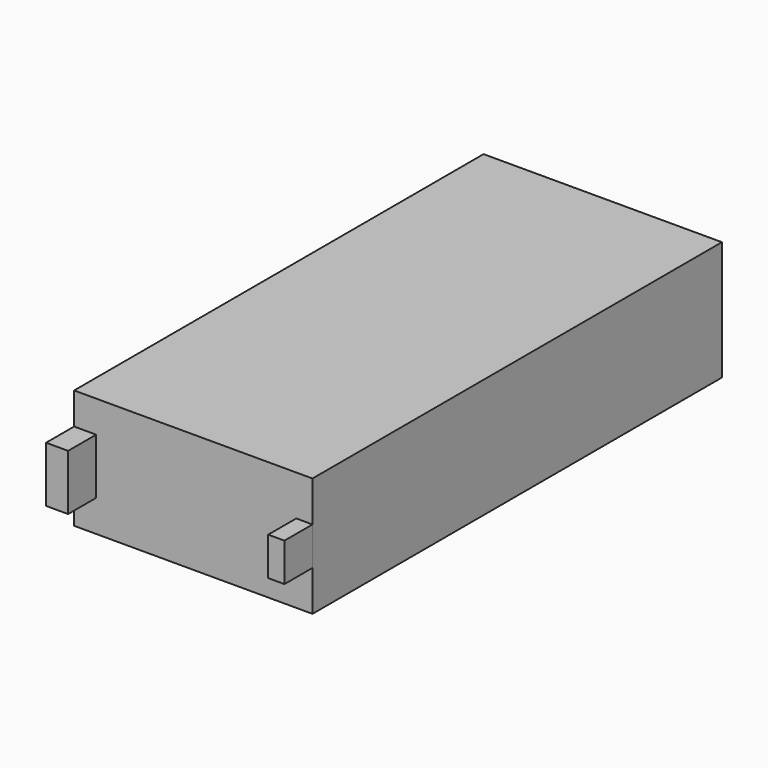
from build123d import *

# Parameters (mm, degrees)
F0_W     = 34
F0_H     = 73
F1_DEPTH = 17
F2_W     = 3.143385
F2_H     = 7.941178
F2_W_2   = 2.316179
F2_H_2   = 5.45956
F3_DEPTH = 5


with BuildPart() as f1:
    # F0 (on Top) → F1 (new body)
    with BuildSketch(Plane.XY):
        Rectangle(F0_W, F0_H)
    extrude(amount=F1_DEPTH)

    # F2 (on face) → F3 (join)
    with BuildSketch(Plane.XZ.offset(36.5)):
        with Locations((-15.428307, 8.5)):
            Rectangle(F2_W, F2_H)
        with Locations((15.841911, 8.5)):
            Rectangle(F2_W_2, F2_H_2)
    extrude(amount=F3_DEPTH)


solid = f1.part
